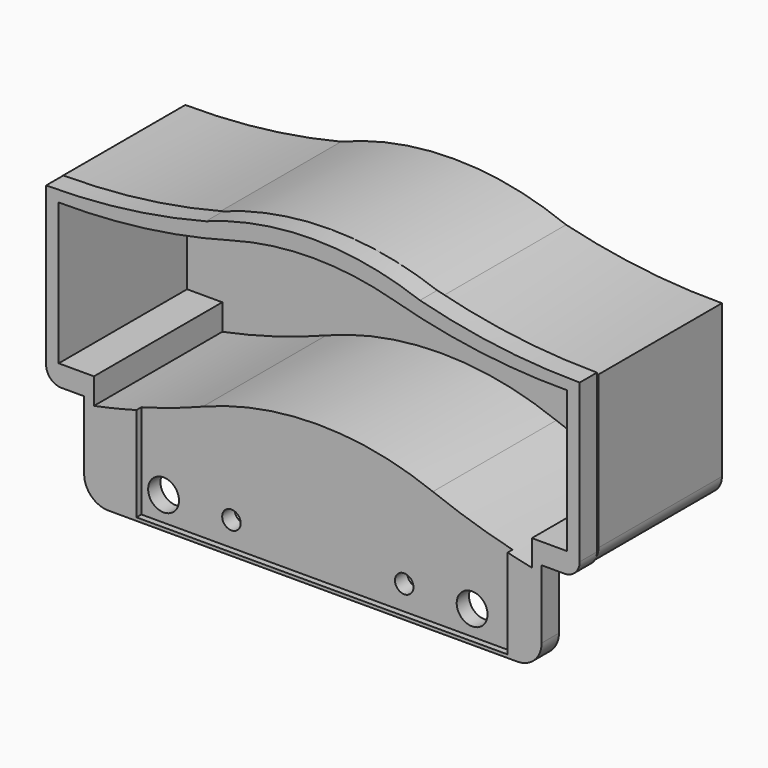
from build123d import *

# Parameters (mm, degrees)
SKETCH037_R     = 5
SKETCH037_R_2   = 3
PAD019_DEPTH    = 7
PAD020_DEPTH    = 50
POCKET019_DEPTH = 52
SKETCH055_W     = 120.3
SKETCH055_H     = 69.7
POCKET033_DEPTH = 2


with BuildPart() as part:
    # Sketch037 → Pad019 (new body)
    with BuildSketch(Plane.XZ):
        with BuildLine():
            Line((-74.137414, 12.904758), (-74.137414, 35.098297))
            Line((-81.471367, 35.098297), (-74.137414, 35.098297))
            ThreePointArc((-86.471367, 40.098297), (-85.006901, 36.562763), (-81.471367, 35.098297))
            Line((-86.471367, 91.234717), (-86.471367, 40.098297))
            ThreePointArc((-86.471367, 91.234717), (-60.36938, 92.892964), (-34.688969, 97.850786))
            ThreePointArc((34.688969, 97.850786), (0, 104.060193), (-34.688969, 97.850786))
            ThreePointArc((34.688969, 97.850786), (60.36938, 92.892964), (86.471367, 91.234717))
            Line((86.471367, 40.098297), (86.471367, 91.234717))
            ThreePointArc((81.471367, 35.098297), (85.006901, 36.562763), (86.471367, 40.098297))
            Line((81.471367, 35.098297), (74.137414, 35.098297))
            Line((74.137414, 35.098297), (74.137414, 12.904758))
            ThreePointArc((66.272551, 5.039896), (71.833849, 7.343461), (74.137414, 12.904758))
            Line((-66.272551, 5.039896), (66.272551, 5.039896))
            ThreePointArc((-74.137414, 12.904758), (-71.833849, 7.343461), (-66.272551, 5.039896))
        make_face()
        with Locations((50, 14)):
            Circle(SKETCH037_R, mode=Mode.SUBTRACT)
        with Locations((28, 14)):
            Circle(SKETCH037_R_2, mode=Mode.SUBTRACT)
        with Locations((-28, 14)):
            Circle(SKETCH037_R_2, mode=Mode.SUBTRACT)
        with Locations((-50, 14)):
            Circle(SKETCH037_R, mode=Mode.SUBTRACT)
    extrude(amount=PAD019_DEPTH)

    # Sketch038 → Pad020 (join)
    with BuildSketch(Plane.XZ):
        with BuildLine():
            ThreePointArc((-86.959112, 90.862971), (-61.522638, 92.265374), (-36.457272, 96.816017))
            ThreePointArc((36.457272, 96.816017), (0, 103.814452), (-36.457272, 96.816017))
            ThreePointArc((36.457272, 96.816017), (61.522638, 92.265374), (86.959112, 90.862971))
            Line((86.959112, 90.862971), (86.959112, 41.431149))
            ThreePointArc((80.824745, 35.296782), (85.162398, 37.093496), (86.959112, 41.431149))
            Line((80.824745, 35.296782), (73.659845, 35.296782))
            Line((73.659845, 35.296782), (73.659845, 29.983299))
            ThreePointArc((35.609044, 40.041003), (54.393041, 34.09886), (73.659845, 29.983299))
            ThreePointArc((35.609044, 40.041003), (0, 46.461552), (-35.609044, 40.041003))
            ThreePointArc((-73.659845, 29.983299), (-54.392205, 34.095699), (-35.609044, 40.041003))
            Line((-73.659845, 35.296782), (-73.659845, 29.983299))
            Line((-73.659845, 35.296782), (-80.824745, 35.296782))
            ThreePointArc((-86.959112, 41.431149), (-85.162398, 37.093496), (-80.824745, 35.296782))
            Line((-86.959112, 41.431149), (-86.959112, 90.862971))
        make_face()
    extrude(amount=-PAD020_DEPTH)

    # Sketch041 → Pocket019 (cut)
    with BuildSketch(Plane.XZ.offset(7)):
        with BuildLine():
            Line((-82.380554, 87.705044), (-82.380554, 41.80913))
            Line((-82.380554, 41.80913), (-70.96716, 41.80913))
            Line((-70.96716, 41.80913), (-70.96716, 33.384282))
            ThreePointArc((-70.96716, 33.384282), (-53.906892, 37.605949), (-37.282812, 43.308157))
            ThreePointArc((37.282812, 43.308157), (0, 50.369381), (-37.282812, 43.308157))
            ThreePointArc((37.282812, 43.308157), (53.912566, 37.625207), (70.96716, 33.384282))
            Line((70.96716, 41.80913), (70.96716, 33.384282))
            Line((82.380554, 41.80913), (70.96716, 41.80913))
            Line((82.380554, 87.705044), (82.380554, 41.80913))
            ThreePointArc((26.263667, 95.117414), (54.064692, 89.462391), (82.380554, 87.705044))
            ThreePointArc((26.263667, 95.117414), (0, 98.684945), (-26.263667, 95.117414))
            ThreePointArc((-82.380554, 87.705044), (-54.064692, 89.462391), (-26.263667, 95.117414))
        make_face()
    extrude(amount=-POCKET019_DEPTH, mode=Mode.SUBTRACT)

    # Sketch055 → Pocket033 (cut)
    with BuildSketch(Plane(origin=(6, -7, 41), x_dir=(1, 0, 0), z_dir=(0, -1, 0))):
        with Locations((-3.04, -0.08)):
            Rectangle(SKETCH055_W, SKETCH055_H)
    extrude(amount=-POCKET033_DEPTH, mode=Mode.SUBTRACT)


solid = part.part
